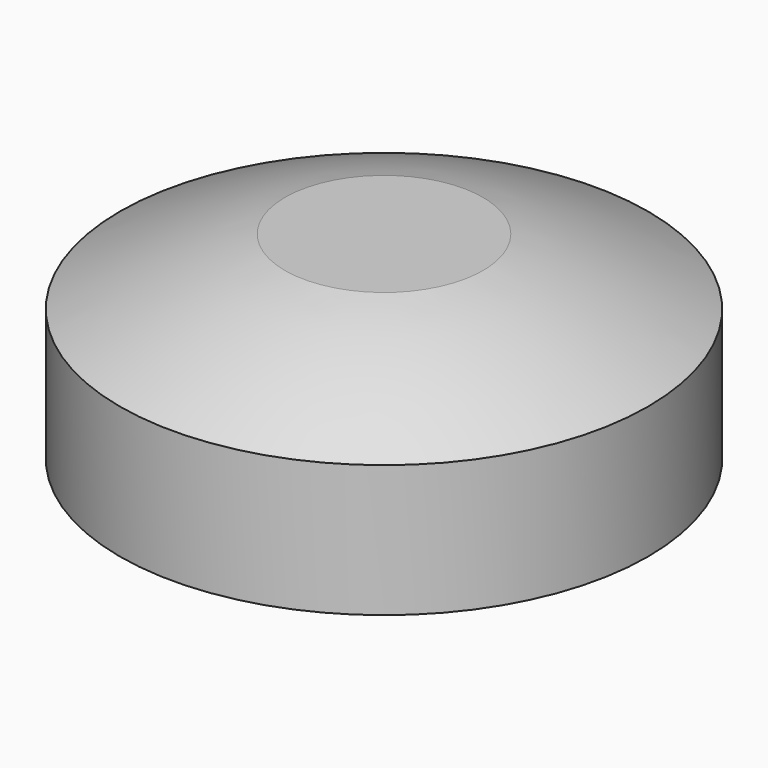
from build123d import *

# Parameters (mm, degrees)
F0_R     = 25.4
F1_DEPTH = 12.7


with BuildPart() as f1:
    # F0 (on Top) → F1 (new body)
    with BuildSketch(Plane.XY):
        Circle(F0_R)
    extrude(amount=F1_DEPTH)


with BuildPart() as f3:
    # F2 (on Front) → F3 (revolve)
    with BuildSketch(Plane.XZ):
        with BuildLine():
            add(Edge.make_bspline(
                [(-25.4, 12.7), (-20.3453424477, 15.2263469596), (-15.2906848954, 17.7526939191), (-9.525, 19.05)],
                knots=[0, 0, 0, 0, 0.3272740211, 0.3272740211, 0.3272740211, 0.3272740211], degree=3))
            Line((-25.4, 12.7), (-9.525, 12.7))
            Line((-9.525, 12.7), (0, 12.7))
            Line((0, 12.7), (0, 19.05))
            Line((0, 19.05), (-9.525, 19.05))
        make_face()
    revolve(axis=Axis((0, 0, 15.875), (0, 0, -1)))


solid = Compound([f1.part, f3.part])
